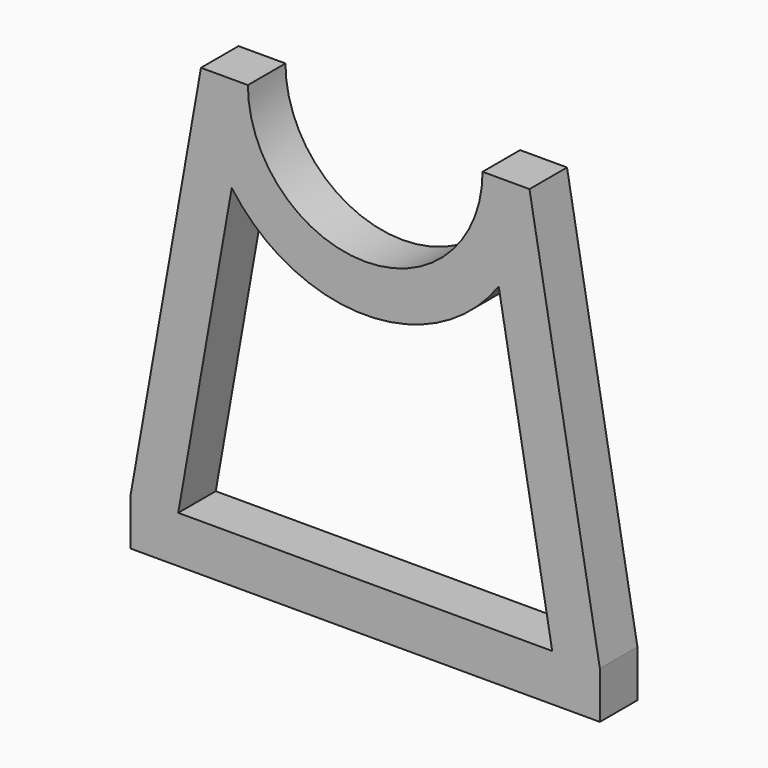
from build123d import *

# Parameters (mm, degrees)
F1_DEPTH = 2.54
F4_DEPTH = 2.541


with BuildPart() as f1:
    # F0 (on Front) → F1 (new body)
    with BuildSketch(Plane.XZ):
        with BuildLine():
            ThreePointArc((6.35, 0), (0, -6.35), (-6.35, 0))
            Line((-6.35, 0), (-8.89, 0))
            Line((-8.89, 0), (-12.7, -21.607584))
            Line((-12.7, -21.607584), (-12.7, -24.147584))
            Line((-12.7, -24.147584), (12.7, -24.147584))
            Line((12.7, -24.147584), (12.7, -21.607584))
            Line((12.7, -21.607584), (8.89, 0))
            Line((8.89, 0), (6.35, 0))
        make_face()
    extrude(amount=F1_DEPTH)


with BuildPart() as f2_1:
    # F2: copy of F1
    add(f1.part)


with BuildPart() as f4_tool:
    # F3 (on face) → F4 (new body, through all)
    with BuildSketch(Plane.XZ.offset(2.54)):
        with BuildLine():
            Line((-7.224337, -5.180835), (-10.120816, -21.607584))
            Line((-10.120816, -21.607584), (10.120816, -21.607584))
            Line((10.120816, -21.607584), (7.224337, -5.180835))
            ThreePointArc((7.224337, -5.180835), (0, -8.89), (-7.224337, -5.180835))
        make_face()
    extrude(amount=-F4_DEPTH)


with BuildPart() as f1_1:
    add(f1.part)

    # F4: cut by f4_tool
    add(f4_tool.part, mode=Mode.SUBTRACT)


with BuildPart() as f2_1_1:
    add(f2_1.part)

    # F4: cut by f4_tool
    add(f4_tool.part, mode=Mode.SUBTRACT)


solid = Compound([f1_1.part, f2_1_1.part])
